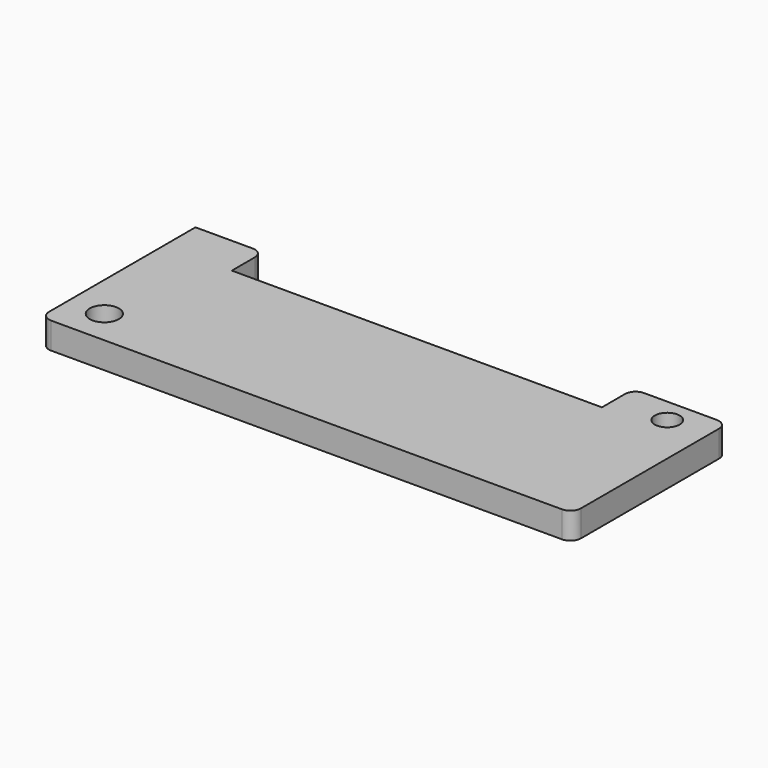
from build123d import *

# Parameters (mm, degrees)
F0_R     = 3.495144
F0_R_2   = 2.976009
F1_DEPTH = 6.35


with BuildPart() as f1:
    # F0 (on Top) → F1 (new body)
    with BuildSketch(Plane.XY):
        with BuildLine():
            Line((-49.334616, 20.808462), (-63.109234, 20.808462))
            Line((-63.109234, 20.808462), (-63.109234, -23.153078))
            ThreePointArc((-63.109234, -23.153078), (-62.365285, -24.949129), (-60.569234, -25.693078))
            Line((-60.569234, -25.693078), (62.132314, -25.693078))
            ThreePointArc((62.132314, -25.693078), (63.928365, -24.949129), (64.672314, -23.153078))
            Line((64.672314, -23.153078), (64.672314, 18.268462))
            ThreePointArc((64.672314, 18.268462), (63.928365, 20.064513), (62.132314, 20.808462))
            Line((62.132314, 20.808462), (44.645384, 20.808462))
            ThreePointArc((44.645384, 20.808462), (42.849333, 20.064513), (42.105384, 18.268462))
            Line((42.105384, 18.268462), (42.105384, 11.332308))
            Line((42.105384, 11.332308), (-46.794616, 11.332308))
            Line((-46.794616, 11.332308), (-46.794616, 18.268462))
            ThreePointArc((-46.794616, 18.268462), (-47.538565, 20.064513), (-49.334616, 20.808462))
        make_face()
        with Locations((-54.512307, -17.291538)):
            Circle(F0_R, mode=Mode.SUBTRACT)
        with Locations((54.903079, 14.946924)):
            Circle(F0_R_2, mode=Mode.SUBTRACT)
    extrude(amount=F1_DEPTH)


solid = f1.part
